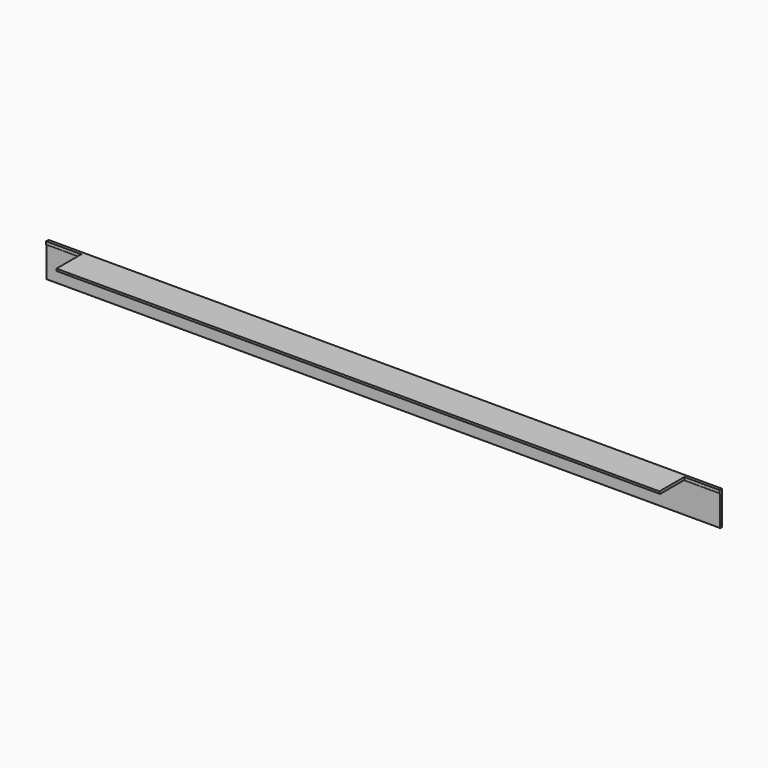
from build123d import *

# Parameters (mm, degrees)
F1_DEPTH = 889
F2_W     = 93
F2_H     = 82
F3_DEPTH = 25


with BuildPart() as f1:
    # F0 (on Right) → F1 (new body, symmetric)
    with BuildSketch(Plane.YZ):
        with BuildLine():
            Line((0, -90), (0, 0))
            Line((0, 0), (-90, 0))
            Line((-90, 0), (-90, -4))
            ThreePointArc((-90, -4), (-89.12132, -6.12132), (-87, -7))
            Line((-87, -7), (-10, -7))
            ThreePointArc((-10, -7), (-7.87868, -7.87868), (-7, -10))
            Line((-7, -10), (-7, -87))
            ThreePointArc((-7, -87), (-6.12132, -89.12132), (-4, -90))
            Line((-4, -90), (0, -90))
        make_face()
    extrude(amount=F1_DEPTH, both=True)

    # F2 (on face) → F3 (cut)
    with BuildSketch(Plane.XY):
        with Locations((842.5, -49)):
            Rectangle(F2_W, F2_H)
        with Locations((-842.5, -49)):
            Rectangle(F2_W, F2_H)
    extrude(amount=-F3_DEPTH, mode=Mode.SUBTRACT)


solid = f1.part
